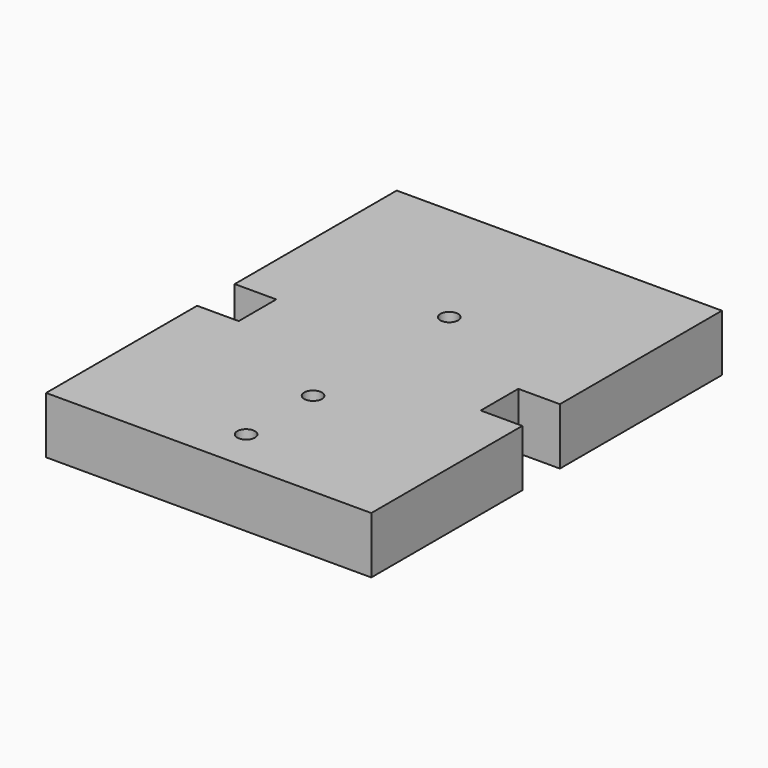
from build123d import *

# Parameters (mm, degrees)
F1_DEPTH = 10.16
F2_D     = 3.175
F3_D     = 3.175
F4_D     = 3.175


with BuildPart() as f1:
    # F0 (on Top) → F1 (new body)
    with BuildSketch(Plane.XY):
        Polygon((28.5605379663, 36.279651515), (-29.6971968522, 36.279651515), (-29.6971968522, 0), (-22.248769179, 0), (-22.248769179, -8.4145991132), (-29.6971968522, -8.4145991132), (-29.6971968522, -42.2337416008), (28.5605379663, -42.2337416008), (28.5605379663, -8.4145991132), (21.1078077555, -8.4145991132), (21.1078077555, 0), (28.5605379663, 0), align=None)
    extrude(amount=F1_DEPTH)

    # F2 (through all)
    with Locations(Plane(origin=(0, 0, 0), x_dir=(1, 0, 0), z_dir=(0, 0, -1))):
        with Locations((0, -10.9305603428)):
            Hole(F2_D / 2)

    # F3 (through all)
    with Locations(Plane(origin=(0, 0, 0), x_dir=(1, 0, 0), z_dir=(0, 0, -1))):
        with Locations((0, 19.5694396572)):
            Hole(F3_D / 2)

    # F4 (through all)
    with Locations(Plane(origin=(0, 0, 0), x_dir=(1, 0, 0), z_dir=(0, 0, -1))):
        with Locations((0, 34.5694396572)):
            Hole(F4_D / 2)


solid = f1.part
